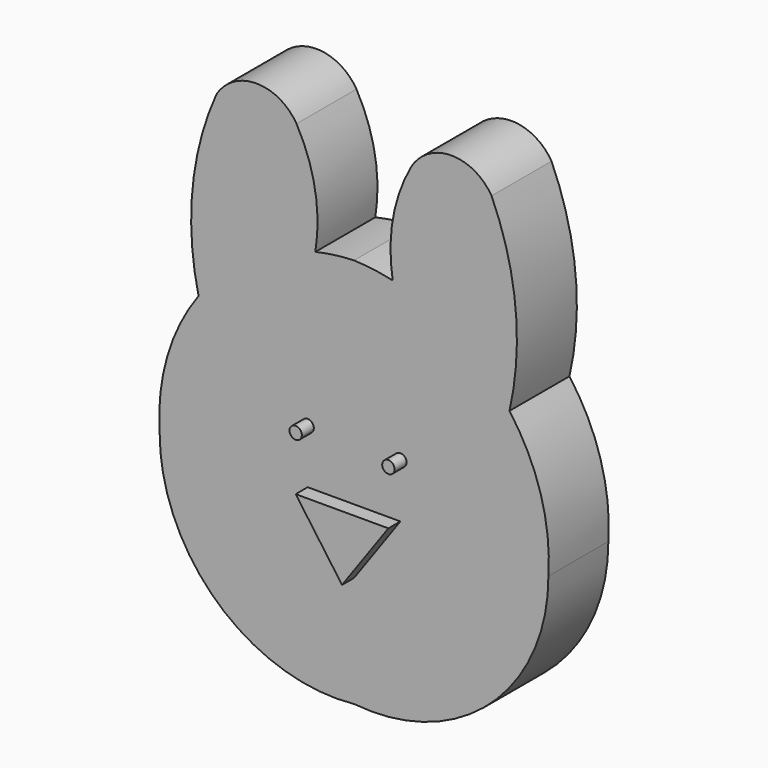
from build123d import *

# Parameters (mm, degrees)
F1_DEPTH = 10
F2_R     = 0.822004
F3_DEPTH = 2


with BuildPart() as f1:
    # F0 (on Front) → F1 (new body)
    with BuildSketch(Plane.XZ):
        with BuildLine():
            ThreePointArc((-20.744744, 17.720184), (-24.907508, 9.319196), (-25.935996, 0))
            ThreePointArc((-25.935996, 0), (-18.182881, -17.494399), (0, -23.456582))
            ThreePointArc((0, -23.456582), (18.182881, -17.494399), (25.935996, 0))
            ThreePointArc((25.935996, 0), (24.907508, 9.319196), (20.744744, 17.720184))
            ThreePointArc((20.744744, 17.720184), (13.869741, 24.238432), (5.162098, 27.970746))
            ThreePointArc((5.162098, 27.970746), (2.597553, 28.436311), (0, 28.651634))
            ThreePointArc((0, 28.651634), (-2.597553, 28.436311), (-5.162098, 27.970746))
            ThreePointArc((-5.162098, 27.970746), (-13.869741, 24.238432), (-20.744744, 17.720184))
        make_face()
        with BuildLine():
            ThreePointArc((-18.349437, 42.2047), (-21.548752, 30.158264), (-20.744744, 17.720184))
            ThreePointArc((-20.744744, 17.720184), (-13.869741, 24.238432), (-5.162098, 27.970746))
            ThreePointArc((-5.162098, 27.970746), (-5.195956, 35.30326), (-7.673257, 42.2047))
            ThreePointArc((-7.673257, 42.2047), (-13.011347, 45.206587), (-18.349437, 42.2047))
        make_face()
        with BuildLine():
            ThreePointArc((5.162098, 27.970746), (13.869741, 24.238432), (20.744744, 17.720184))
            ThreePointArc((20.744744, 17.720184), (21.548752, 30.158264), (18.349437, 42.2047))
            ThreePointArc((18.349437, 42.2047), (13.011347, 45.206587), (7.673257, 42.2047))
            ThreePointArc((7.673257, 42.2047), (5.195956, 35.30326), (5.162098, 27.970746))
        make_face()
    extrude(amount=F1_DEPTH)

    # F2 (on face) → F3 (join)
    with BuildSketch(Plane.XZ.offset(10)):
        Polygon((6.184806, 0), (0, 0), (-6.184806, 0), (0, -8.656673), align=None)
        with Locations((-6.184806, 7.202729)):
            Circle(F2_R)
        with Locations((6.184806, 7.202729)):
            Circle(F2_R)
    extrude(amount=F3_DEPTH)


solid = f1.part
